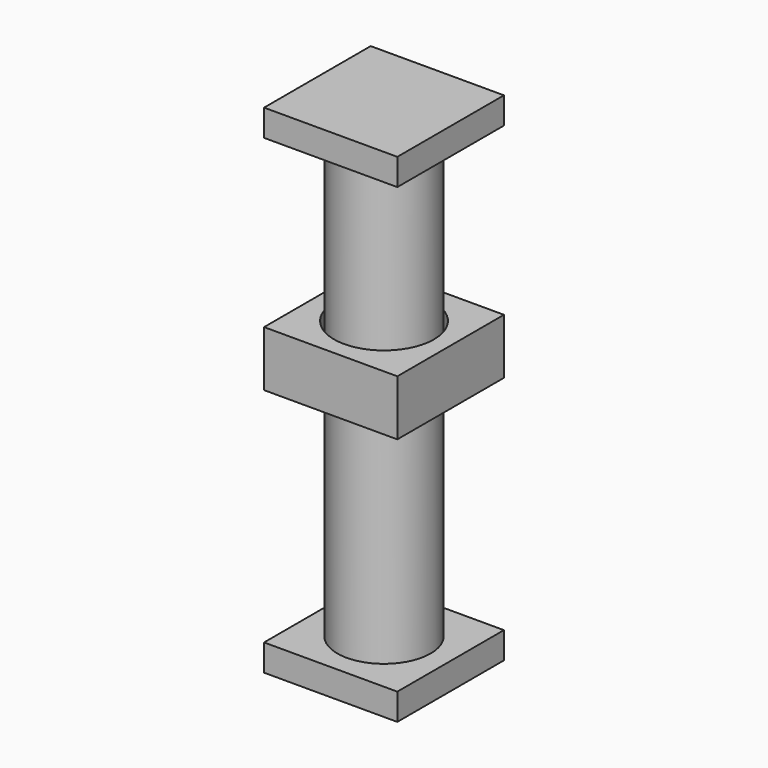
from build123d import *

# Parameters (mm, degrees)
F0_W      = 60
F0_H      = 60
F2_DEPTH  = 25
F1_R      = 22.5
F3_DEPTH  = 25
F4_R      = 21
F5_DEPTH  = 100
F6_W      = 60
F6_H      = 60
F7_DEPTH  = 12
F9_W      = 60
F9_H      = 60
F9_R      = 21
F10_DEPTH = 12


with BuildPart() as f2:
    # F0 (on Top) → F2 (new body)
    with BuildSketch(Plane.XY):
        Rectangle(F0_W, F0_H)
    extrude(amount=F2_DEPTH)

    # F1 (on Top) → F3 (cut)
    with BuildSketch(Plane.XY):
        Circle(F1_R)
    extrude(amount=F3_DEPTH, mode=Mode.SUBTRACT)


with BuildPart() as f5:
    # F4 (on Top) → F5 (new body, symmetric)
    with BuildSketch(Plane.XY):
        Circle(F4_R)
    extrude(amount=F5_DEPTH, both=True)

    # F6 (on face) → F7 (join)
    with BuildSketch(Plane.XY.offset(100)):
        Rectangle(F6_W, F6_H)
    extrude(amount=F7_DEPTH)


with BuildPart() as f10:
    # F9 (on face) → F10 (new body)
    with BuildSketch(Plane(origin=(0, 0, -100), x_dir=(1, 0, 0), z_dir=(0, 0, -1))):
        Rectangle(F9_W, F9_H)
        Circle(F9_R, mode=Mode.SUBTRACT)
    extrude(amount=F10_DEPTH)


solid = Compound([f2.part, f5.part, f10.part])
